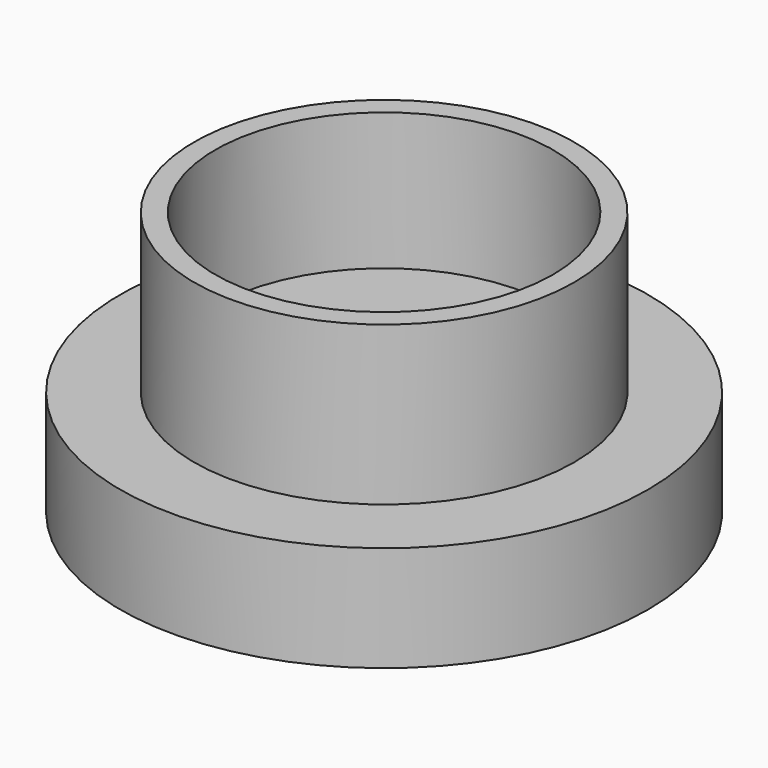
from build123d import *

# Parameters (mm, degrees)
F0_R     = 18
F1_DEPTH = 15
F2_T     = -2
F3_R     = 25
F4_DEPTH = 10
F5_T     = -2
F7_D     = 1
F8_D     = 1
F9_D     = 1
F10_D    = 1
F11_D    = 1
F12_D    = 1
F13_D    = 1
F14_D    = 1


with BuildPart() as f1:
    # F0 (on Top) → F1 (new body)
    with BuildSketch(Plane.XY):
        Circle(F0_R)
    extrude(amount=-F1_DEPTH)

    # F2
    f2_openings = [f1.faces().sort_by_distance(p)[0] for p in [
        (0, 0, 0),
    ]]
    offset(amount=F2_T, openings=f2_openings)

    # F3 (on face) → F4 (join)
    with BuildSketch(Plane(origin=(0, 0, -15), x_dir=(1, 0, 0), z_dir=(0, 0, -1))):
        Circle(F3_R)
    extrude(amount=F4_DEPTH)

    # F5
    f5_openings = [f1.faces().sort_by_distance(p)[0] for p in [
        (0, 0, -25),
    ]]
    offset(amount=F5_T, openings=f5_openings, kind=Kind.INTERSECTION)

    # F7 (through all)
    with Locations(Plane(origin=(0, 0, -15), x_dir=(1, 0, 0), z_dir=(0, 0, -1))):
        with Locations((0, -13)):
            Hole(F7_D / 2)

    # F8 (through all)
    with Locations(Plane(origin=(0, 0, -15), x_dir=(1, 0, 0), z_dir=(0, 0, -1))):
        with Locations((0, -10.46)):
            Hole(F8_D / 2)

    # F9 (through all)
    with Locations(Plane(origin=(0, 0, -15), x_dir=(1, 0, 0), z_dir=(0, 0, -1))):
        with Locations((-13, 0)):
            Hole(F9_D / 2)

    # F10 (through all)
    with Locations(Plane(origin=(0, 0, -15), x_dir=(1, 0, 0), z_dir=(0, 0, -1))):
        with Locations((-10.46, 0)):
            Hole(F10_D / 2)

    # F11 (through all)
    with Locations(Plane(origin=(0, 0, -15), x_dir=(1, 0, 0), z_dir=(0, 0, -1))):
        with Locations((0, 13.3159505203)):
            Hole(F11_D / 2)

    # F12 (through all)
    with Locations(Plane(origin=(0, 0, -15), x_dir=(1, 0, 0), z_dir=(0, 0, -1))):
        with Locations((0, 10.7759505203)):
            Hole(F12_D / 2)

    # F13 (through all)
    with Locations(Plane(origin=(0, 0, -15), x_dir=(1, 0, 0), z_dir=(0, 0, -1))):
        with Locations((13, 0)):
            Hole(F13_D / 2)

    # F14 (through all)
    with Locations(Plane(origin=(0, 0, -15), x_dir=(1, 0, 0), z_dir=(0, 0, -1))):
        with Locations((10.46, 0)):
            Hole(F14_D / 2)


solid = f1.part
